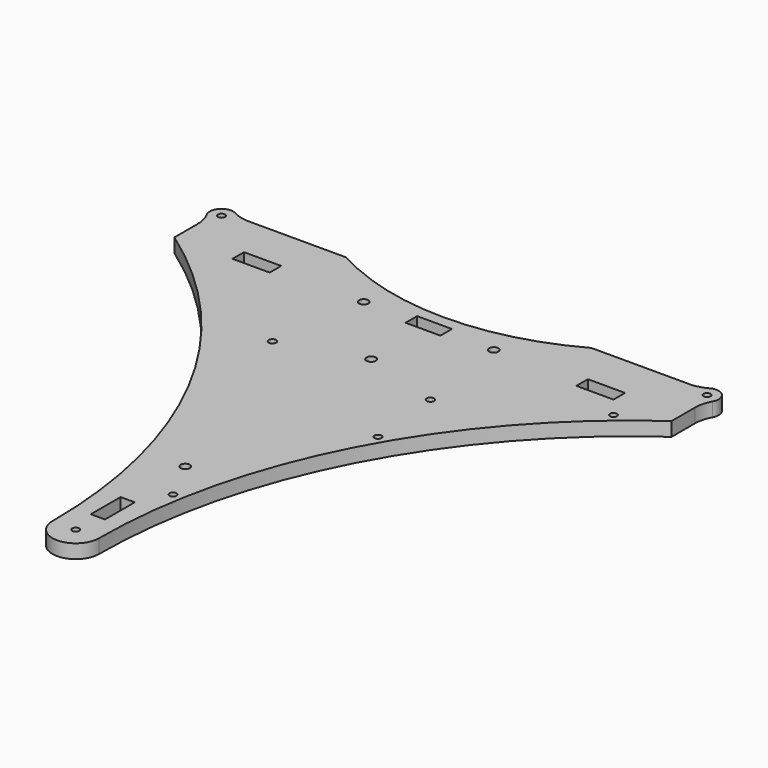
from build123d import *

# Parameters (mm, degrees)
SKETCH042_R   = 1.6
SKETCH042_R_2 = 1.5
SKETCH042_R_3 = 2
SKETCH042_W   = 15
SKETCH042_H   = 6.2
SKETCH042_W_2 = 16
SKETCH042_W_3 = 6.1
SKETCH042_H_2 = 16
PAD_DEPTH     = 6


with BuildPart() as part:
    # Sketch042 → Pad (new body)
    with BuildSketch(Plane.XY):
        with BuildLine():
            ThreePointArc((-10, -104.5), (0, -114.5), (10, -104.5))
            ThreePointArc((107, 82.3), (35.695621, 0.741674), (10, -104.5))
            Line((107, 82.3), (107, 94.817542))
            ThreePointArc((108.875, 102.079385), (107.476312, 98.567542), (107, 94.817542))
            ThreePointArc((108.875, 102.079385), (108.035534, 108.035534), (102.079385, 108.875))
            ThreePointArc((94.817542, 107), (98.567542, 107.476312), (102.079385, 108.875))
            Line((94.817542, 107), (52.717063, 107))
            ThreePointArc((-52.717063, 107), (0, 93.4), (52.717063, 107))
            Line((-52.717063, 107), (-94.817542, 107))
            ThreePointArc((-102.079385, 108.875), (-98.567542, 107.476312), (-94.817542, 107))
            ThreePointArc((-102.079385, 108.875), (-108.035534, 108.035534), (-108.875, 102.079385))
            ThreePointArc((-107, 94.817542), (-107.476312, 98.567542), (-108.875, 102.079385))
            Line((-107, 94.817542), (-107, 82.3))
            ThreePointArc((-10, -104.5), (-35.695621, 0.741674), (-107, 82.3))
        make_face()
        with Locations((34, 43.8)):
            Circle(SKETCH042_R, mode=Mode.SUBTRACT)
        with Locations((9.53018, -64.149856)):
            Circle(SKETCH042_R_2, mode=Mode.SUBTRACT)
        with Locations((-104.5, 104.5)):
            Circle(SKETCH042_R_2, mode=Mode.SUBTRACT)
        with Locations((28, 85.4)):
            Circle(SKETCH042_R_3, mode=Mode.SUBTRACT)
        with Locations((0, -104.5)):
            Circle(SKETCH042_R_2, mode=Mode.SUBTRACT)
        with Locations((-28, 85.4)):
            Circle(SKETCH042_R_3, mode=Mode.SUBTRACT)
        with Locations((-34, 43.8)):
            Circle(SKETCH042_R, mode=Mode.SUBTRACT)
        with Locations((0, 54.4)):
            Circle(SKETCH042_R_3, mode=Mode.SUBTRACT)
        with Locations((0, -45.6)):
            Circle(SKETCH042_R_3, mode=Mode.SUBTRACT)
        with Locations((104.5, 104.5)):
            Circle(SKETCH042_R_2, mode=Mode.SUBTRACT)
        with Locations((37.131304, 11.683608)):
            Circle(SKETCH042_R_2, mode=Mode.SUBTRACT)
        with Locations((89.004449, 73.503615)):
            Circle(SKETCH042_R_2, mode=Mode.SUBTRACT)
        with Locations((0, 85.4)):
            Rectangle(SKETCH042_W, SKETCH042_H, mode=Mode.SUBTRACT)
        with Locations((74, 85.4)):
            Rectangle(SKETCH042_W_2, SKETCH042_H, mode=Mode.SUBTRACT)
        with Locations((0, -84.6)):
            Rectangle(SKETCH042_W_3, SKETCH042_H_2, mode=Mode.SUBTRACT)
        with Locations((-74, 85.4)):
            Rectangle(SKETCH042_W_2, SKETCH042_H, mode=Mode.SUBTRACT)
    extrude(amount=PAD_DEPTH)


solid = part.part
